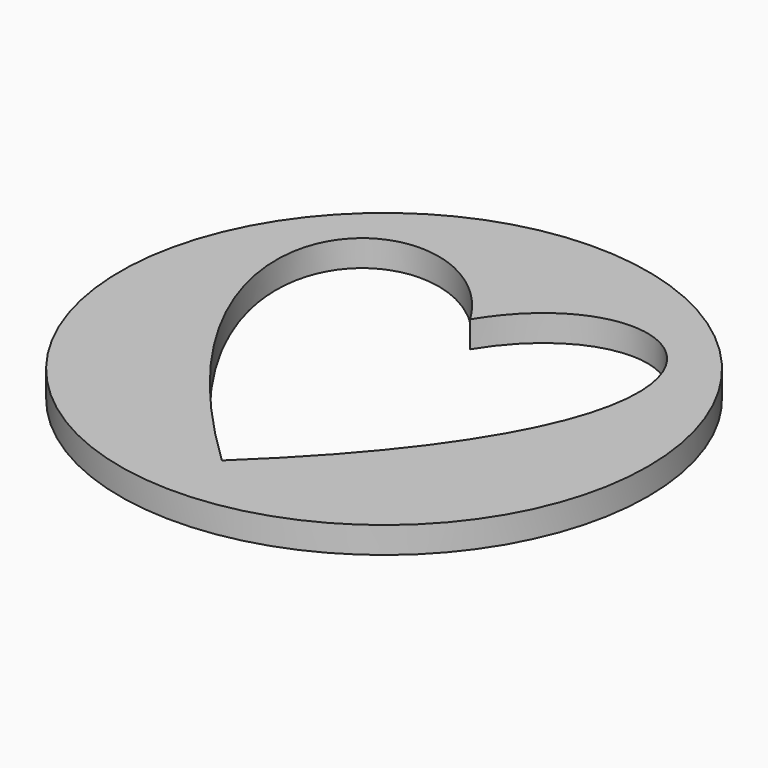
from build123d import *

# Parameters (mm, degrees)
EXTRUDE_DEPTH      = 6
EXTRUDE_DEPTH_BACK = 1
CYLINDER_R         = 50
CYLINDER_DEPTH     = 5


with BuildPart() as extrude_body:
    # Sketch → Extrude (new body, two sides)
    with BuildSketch(Plane.XY) as extrude_sk:
        with BuildLine():
            add(Edge.make_bspline(
                [(0, 20.3714), (-19.252262, 51.958269), (-66.21259, 25.005477), (-0.43936, -37.8768)],
                knots=[0, 0, 0, 0, 1, 1, 1, 1], degree=3))
            add(Edge.make_bspline(
                [(0, 20.3714), (19.252262, 51.958269), (66.21259, 25.005477), (-0.43936, -37.8768)],
                knots=[0, 0, 0, 0, 1, 1, 1, 1], degree=3))
        make_face()
    extrude(amount=EXTRUDE_DEPTH)
    extrude(extrude_sk.sketch, amount=-EXTRUDE_DEPTH_BACK)


with BuildPart() as cut:
    # Cylinder → Cylinder (new body)
    with BuildSketch(Plane.XY):
        Circle(CYLINDER_R)
    extrude(amount=CYLINDER_DEPTH)

    # Cut: cut Extrude body
    add(extrude_body.part, mode=Mode.SUBTRACT)


solid = cut.part
